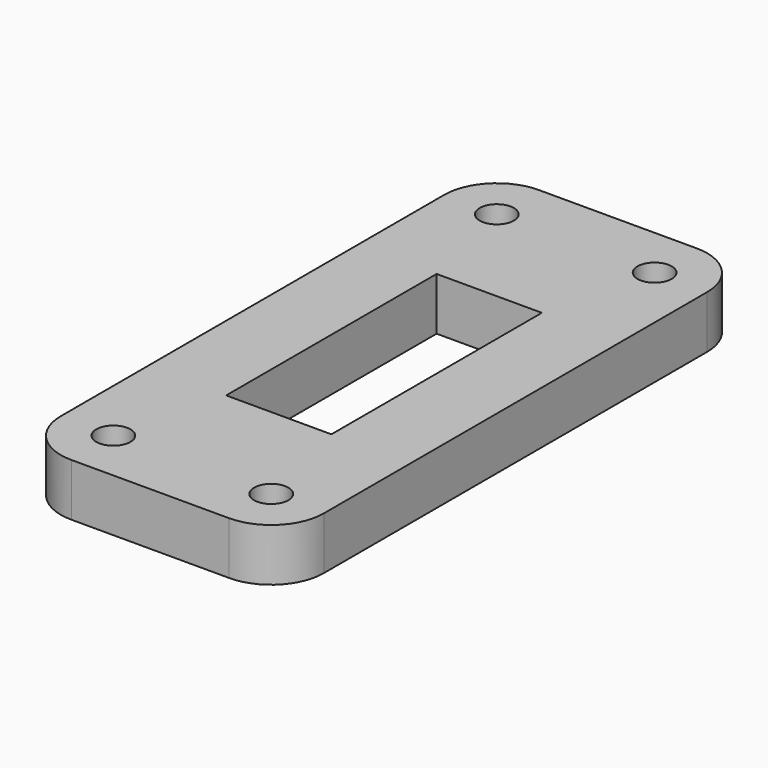
from build123d import *

# Parameters (mm, degrees)
F0_R     = 3.25
F0_W     = 20
F0_H     = 50
F1_DEPTH = 10


with BuildPart() as f1:
    # F0 (on Top) → F1 (new body)
    with BuildSketch(Plane.XY):
        with BuildLine():
            Line((-15, -55.542691), (15, -55.542691))
            ThreePointArc((15, -55.542691), (22.071068, -52.613759), (25, -45.542691))
            Line((25, -45.542691), (25, 45.542691))
            ThreePointArc((25, 45.542691), (22.071068, 52.613759), (15, 55.542691))
            Line((15, 55.542691), (-15, 55.542691))
            ThreePointArc((-15, 55.542691), (-22.071068, 52.613759), (-25, 45.542691))
            Line((-25, 45.542691), (-25, -45.542691))
            ThreePointArc((-25, -45.542691), (-22.071068, -52.613759), (-15, -55.542691))
        make_face()
        with Locations((-15, -45.542691)):
            Circle(F0_R, mode=Mode.SUBTRACT)
        with Locations((15, -45.542691)):
            Circle(F0_R, mode=Mode.SUBTRACT)
        with Locations((-15, 45.542691)):
            Circle(F0_R, mode=Mode.SUBTRACT)
        Rectangle(F0_W, F0_H, mode=Mode.SUBTRACT)
        with Locations((15, 45.542691)):
            Circle(F0_R, mode=Mode.SUBTRACT)
    extrude(amount=F1_DEPTH)


solid = f1.part
